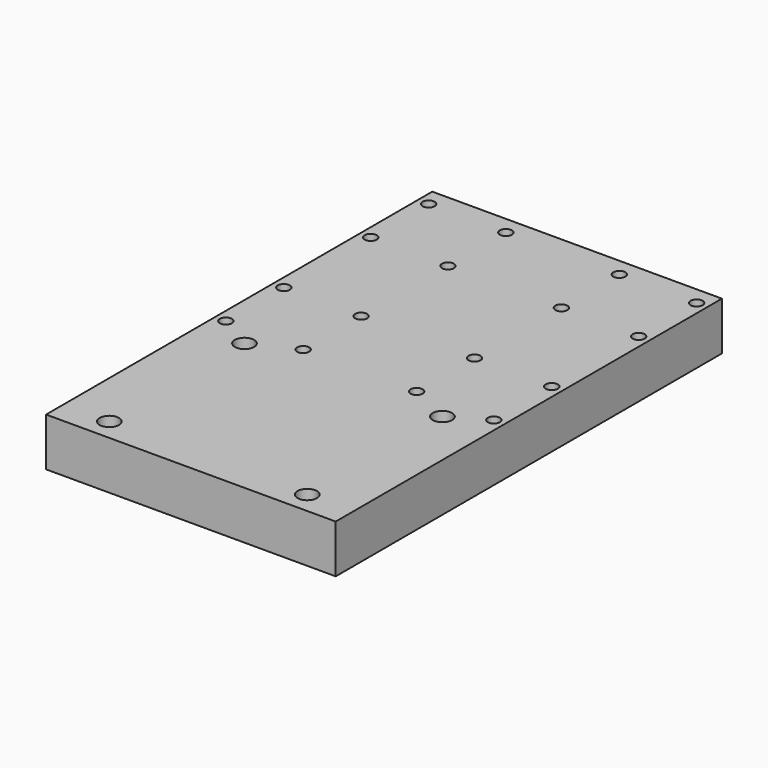
from build123d import *

# Parameters (mm, degrees)
F0_W     = 120
F0_H     = 200
F0_R     = 4
F0_R_2   = 2.5
F1_DEPTH = 20


with BuildPart() as f1:
    # F0 (on Top) → F1 (new body)
    with BuildSketch(Plane.XY):
        with Locations((0, 55.365257)):
            Rectangle(F0_W, F0_H)
        with Locations((-41, -35.634743)):
            Circle(F0_R, mode=Mode.SUBTRACT)
        with Locations((-55.5, 42.865257)):
            Circle(F0_R_2, mode=Mode.SUBTRACT)
        with Locations((-41, 34.365257)):
            Circle(F0_R, mode=Mode.SUBTRACT)
        with Locations((-23.5, 42.865257)):
            Circle(F0_R_2, mode=Mode.SUBTRACT)
        with Locations((41, -35.634743)):
            Circle(F0_R, mode=Mode.SUBTRACT)
        with Locations((23.5, 42.865257)):
            Circle(F0_R_2, mode=Mode.SUBTRACT)
        with Locations((41, 34.365257)):
            Circle(F0_R, mode=Mode.SUBTRACT)
        with Locations((55.5, 42.865257)):
            Circle(F0_R_2, mode=Mode.SUBTRACT)
        with Locations((-55.5, 72.865257)):
            Circle(F0_R_2, mode=Mode.SUBTRACT)
        with Locations((-23.5, 72.865257)):
            Circle(F0_R_2, mode=Mode.SUBTRACT)
        with Locations((-55.5, 117.865257)):
            Circle(F0_R_2, mode=Mode.SUBTRACT)
        with Locations((-55.5, 147.865257)):
            Circle(F0_R_2, mode=Mode.SUBTRACT)
        with Locations((-23.5, 117.865257)):
            Circle(F0_R_2, mode=Mode.SUBTRACT)
        with Locations((-23.5, 147.865257)):
            Circle(F0_R_2, mode=Mode.SUBTRACT)
        with Locations((23.5, 72.865257)):
            Circle(F0_R_2, mode=Mode.SUBTRACT)
        with Locations((55.5, 72.865257)):
            Circle(F0_R_2, mode=Mode.SUBTRACT)
        with Locations((23.5, 117.865257)):
            Circle(F0_R_2, mode=Mode.SUBTRACT)
        with Locations((23.5, 147.865257)):
            Circle(F0_R_2, mode=Mode.SUBTRACT)
        with Locations((55.5, 117.865257)):
            Circle(F0_R_2, mode=Mode.SUBTRACT)
        with Locations((55.5, 147.865257)):
            Circle(F0_R_2, mode=Mode.SUBTRACT)
    extrude(amount=F1_DEPTH)


solid = f1.part
